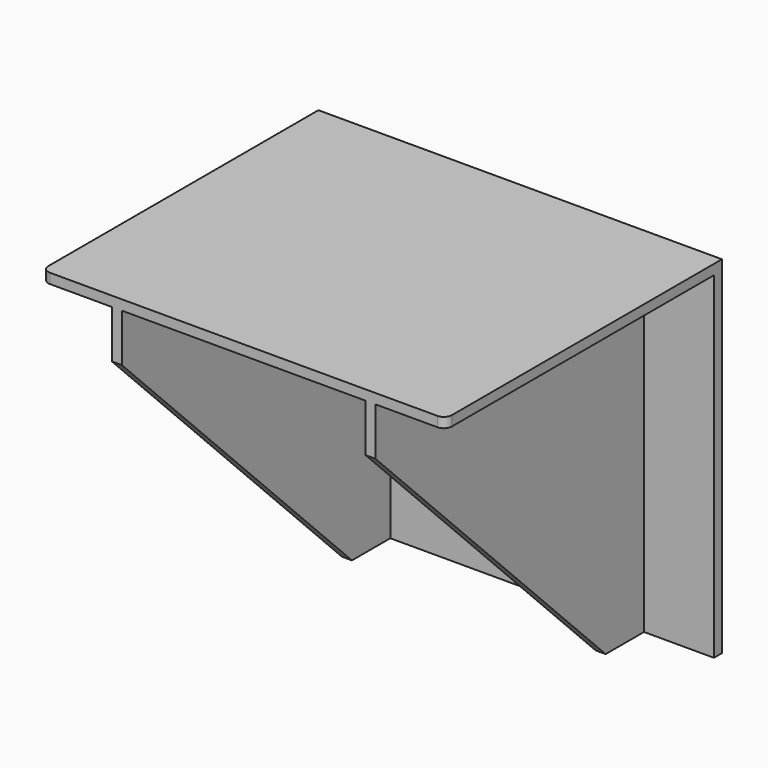
from build123d import *

# Parameters (mm, degrees)
F0_W     = 320.675
F0_H     = 275.60016
F1_DEPTH = 7.9375
F4_DEPTH = 266.7
F6_DEPTH = 265.1135
F8_R     = 6.35


with BuildPart() as f1:
    # F0 (on Front) → F1 (new body)
    with BuildSketch(Plane.XZ):
        with Locations((0, -137.80008)):
            Rectangle(F0_W, F0_H)
    extrude(amount=F1_DEPTH)

    # F3 (on face) → F4 (join)
    with BuildSketch(Plane.XZ.offset(7.9375)):
        Polygon((160.3375, 0), (-160.3375, 0), (-160.3375, -7.9375), (-104.775, -7.9375), (-104.775, -275.60016), (-96.8375, -275.60016), (-96.8375, -7.9375), (96.8375, -7.9375), (96.8375, -275.60016), (104.775, -275.60016), (104.775, -7.9375), (160.3375, -7.9375), align=None)
    extrude(amount=F4_DEPTH)

    # F5 (on face) → F6 (cut, through all)
    with BuildSketch(Plane(origin=(-104.775, 0, 0), x_dir=(0, -1, 0), z_dir=(-1, 0, 0))):
        Polygon((274.6375, -46.0375), (46.0375, -275.60016), (274.6375, -275.60016), align=None)
    extrude(amount=-F6_DEPTH, mode=Mode.SUBTRACT)

    # F8
    f8_edges = [f1.edges().sort_by_distance(p)[0] for p in [
        (-160.3375, -274.6375, -3.96875),
        (160.3375, -274.6375, -3.96875),
    ]]
    fillet(f8_edges, radius=F8_R)


solid = f1.part
